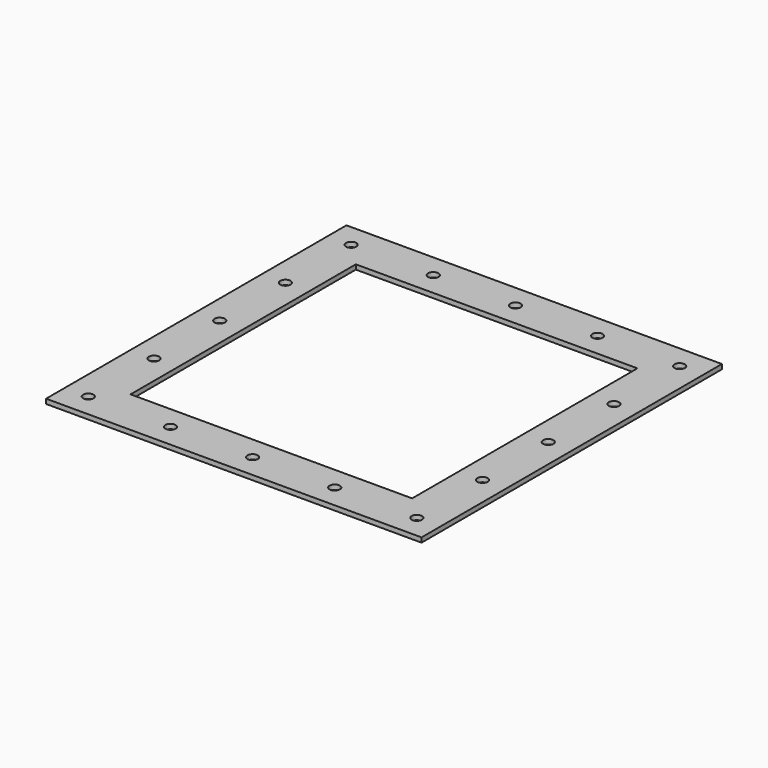
from build123d import *

# Parameters (mm, degrees)
F0_W     = 400
F0_H     = 400
F0_R     = 5.5
F0_W_2   = 300
F0_H_2   = 300
F1_DEPTH = 5


with BuildPart() as f1:
    # F0 (on Top) → F1 (new body)
    with BuildSketch(Plane.XY):
        Rectangle(F0_W, F0_H)
        with Locations((-175, -175)):
            Circle(F0_R, mode=Mode.SUBTRACT)
        with Locations((-87.5, -175)):
            Circle(F0_R, mode=Mode.SUBTRACT)
        with Locations((-175, -87.5)):
            Circle(F0_R, mode=Mode.SUBTRACT)
        with Locations((0, -175)):
            Circle(F0_R, mode=Mode.SUBTRACT)
        with Locations((87.5, -175)):
            Circle(F0_R, mode=Mode.SUBTRACT)
        with Locations((175, -175)):
            Circle(F0_R, mode=Mode.SUBTRACT)
        with Locations((175, -87.5)):
            Circle(F0_R, mode=Mode.SUBTRACT)
        with Locations((-175, 0)):
            Circle(F0_R, mode=Mode.SUBTRACT)
        with Locations((-175, 87.5)):
            Circle(F0_R, mode=Mode.SUBTRACT)
        with Locations((-175, 175)):
            Circle(F0_R, mode=Mode.SUBTRACT)
        with Locations((-87.5, 175)):
            Circle(F0_R, mode=Mode.SUBTRACT)
        Rectangle(F0_W_2, F0_H_2, mode=Mode.SUBTRACT)
        with Locations((175, 0)):
            Circle(F0_R, mode=Mode.SUBTRACT)
        with Locations((175, 87.5)):
            Circle(F0_R, mode=Mode.SUBTRACT)
        with Locations((0, 175)):
            Circle(F0_R, mode=Mode.SUBTRACT)
        with Locations((87.5, 175)):
            Circle(F0_R, mode=Mode.SUBTRACT)
        with Locations((175, 175)):
            Circle(F0_R, mode=Mode.SUBTRACT)
    extrude(amount=F1_DEPTH)


solid = f1.part
